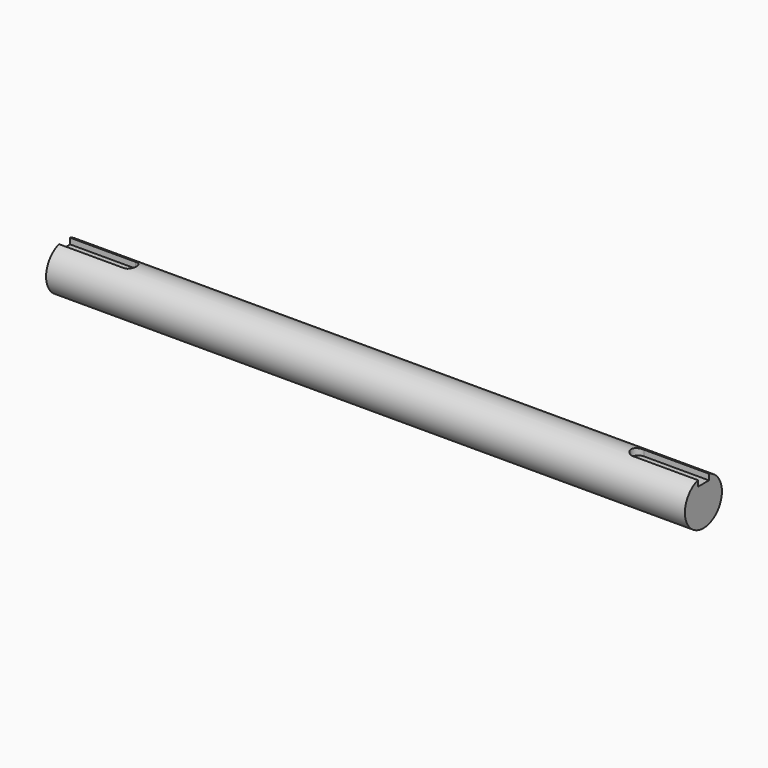
from build123d import *

# Parameters (mm, degrees)
F0_R     = 7.9375
F1_DEPTH = 109.601
F4_DEPTH = 2.38125


with BuildPart() as f1:
    # F0 (on Right) → F1 (new body, symmetric)
    with BuildSketch(Plane.YZ):
        Circle(F0_R)
    extrude(amount=F1_DEPTH, both=True)

    # F3 (on offset) → F4 (cut)
    with BuildSketch(Plane.XY.offset(7.9375)):
        with BuildLine():
            ThreePointArc((109.601, -2.38125), (111.98225, 0), (109.601, 2.38125))
            Line((109.601, 2.38125), (87.249, 2.38125))
            ThreePointArc((87.249, 2.38125), (84.86775, 0), (87.249, -2.38125))
            Line((87.249, -2.38125), (109.601, -2.38125))
        make_face()
        with BuildLine():
            Line((-109.601, -2.38125), (-87.249, -2.38125))
            ThreePointArc((-87.249, -2.38125), (-84.86775, 0), (-87.249, 2.38125))
            Line((-87.249, 2.38125), (-109.601, 2.38125))
            Line((-109.601, 2.38125), (-109.601, 0))
            Line((-109.601, 0), (-109.601, -2.38125))
        make_face()
        with BuildLine():
            ThreePointArc((-109.601, 2.38125), (-111.98225, 0), (-109.601, -2.38125))
            Line((-109.601, -2.38125), (-109.601, 0))
            Line((-109.601, 0), (-109.601, 2.38125))
        make_face()
    extrude(amount=-F4_DEPTH, mode=Mode.SUBTRACT)


solid = f1.part
